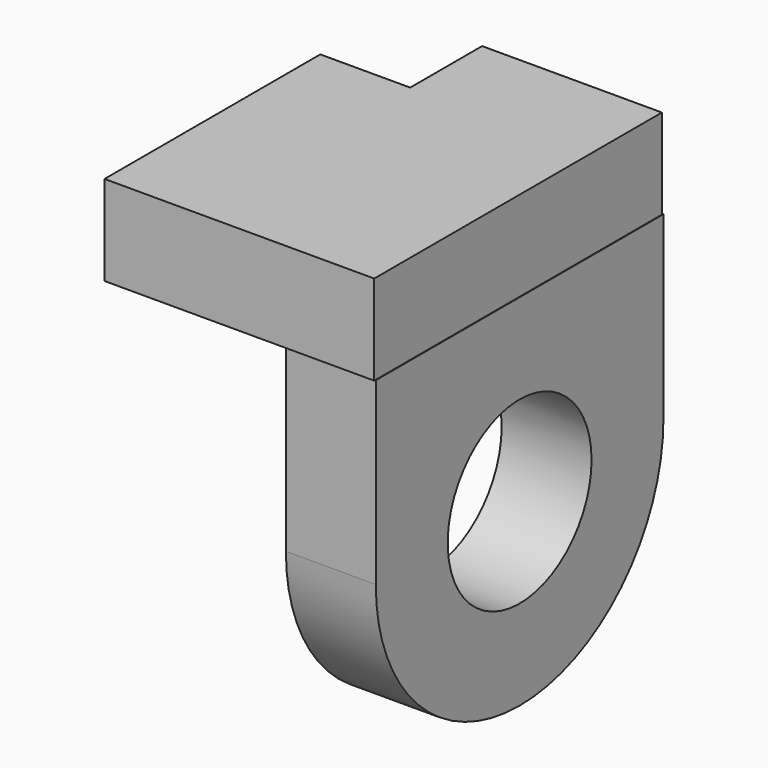
from build123d import *

# Parameters (mm, degrees)
F1_DEPTH = 12.7
F2_W     = 12.7
F2_H     = 50.8
F3_DEPTH = 50.8
F4_R     = 12.7
F5_DEPTH = 21.59
F7_DEPTH = 25.4


with BuildPart() as f1:
    # F0 (on Top) → F1 (new body)
    with BuildSketch(Plane.XY):
        Polygon((19.05, -25.4), (19.05, 25.4), (-6.35, 25.4), (-6.35, 12.7), (-19.05, 12.7), (-19.05, -25.4), align=None)
    extrude(amount=F1_DEPTH)

    # F2 (on Top) → F3 (join)
    with BuildSketch(Plane.XY):
        with Locations((12.775489, 0.181956)):
            Rectangle(F2_W, F2_H)
    extrude(amount=-F3_DEPTH)

    # F4 (on Right) → F5 (cut)
    with BuildSketch(Plane.YZ):
        with Locations((0.181956, -25.4)):
            Circle(F4_R)
    extrude(amount=F5_DEPTH, mode=Mode.SUBTRACT)

    # F6 (on face) → F7 (cut)
    with BuildSketch(Plane(origin=(6.425489, 0, 0), x_dir=(0, -1, 0), z_dir=(-1, 0, 0))):
        with BuildLine():
            ThreePointArc((25.218044, -25.4), (17.778556, -43.360512), (-0.181956, -50.8))
            Line((-0.181956, -50.8), (25.218044, -50.8))
            Line((25.218044, -50.8), (25.218044, -25.4))
        make_face()
        with BuildLine():
            ThreePointArc((-0.181956, -50.8), (-18.142468, -43.360512), (-25.581956, -25.4))
            Line((-25.581956, -25.4), (-25.581956, -50.8))
            Line((-25.581956, -50.8), (-0.181956, -50.8))
        make_face()
    extrude(amount=-F7_DEPTH, mode=Mode.SUBTRACT)


solid = f1.part
